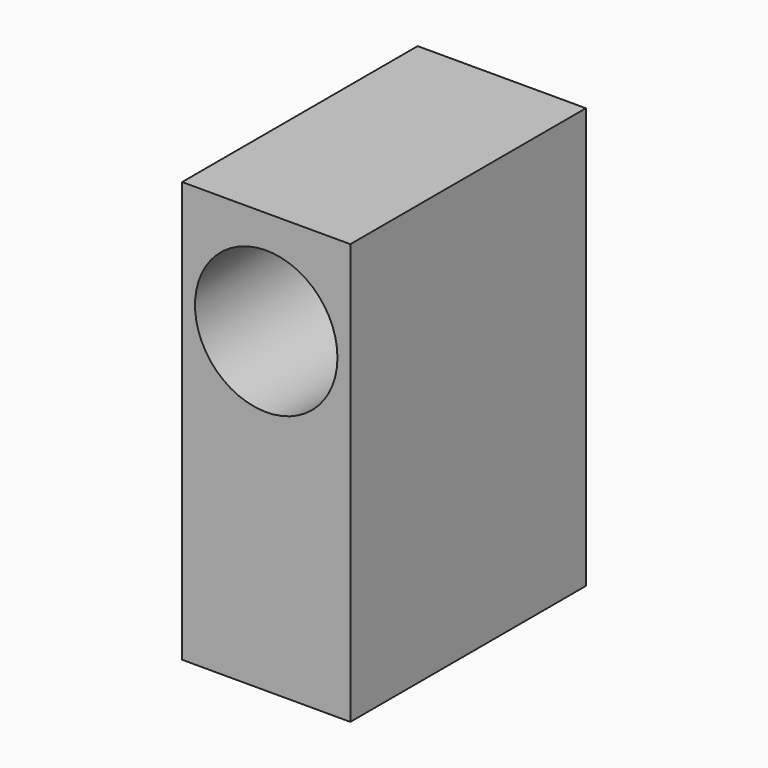
from build123d import *

# Parameters (mm, degrees)
F0_W     = 12
F0_H     = 30
F1_DEPTH = 21
F2_R     = 5.08
F3_DEPTH = 15


with BuildPart() as f1:
    # F0 (on Front) → F1 (new body)
    with BuildSketch(Plane.XZ):
        Rectangle(F0_W, F0_H)
    extrude(amount=F1_DEPTH)

    # F2 (on face) → F3 (cut)
    with BuildSketch(Plane.XZ.offset(21)):
        with Locations((0, 7.577187)):
            Circle(F2_R)
    extrude(amount=-F3_DEPTH, mode=Mode.SUBTRACT)


solid = f1.part
